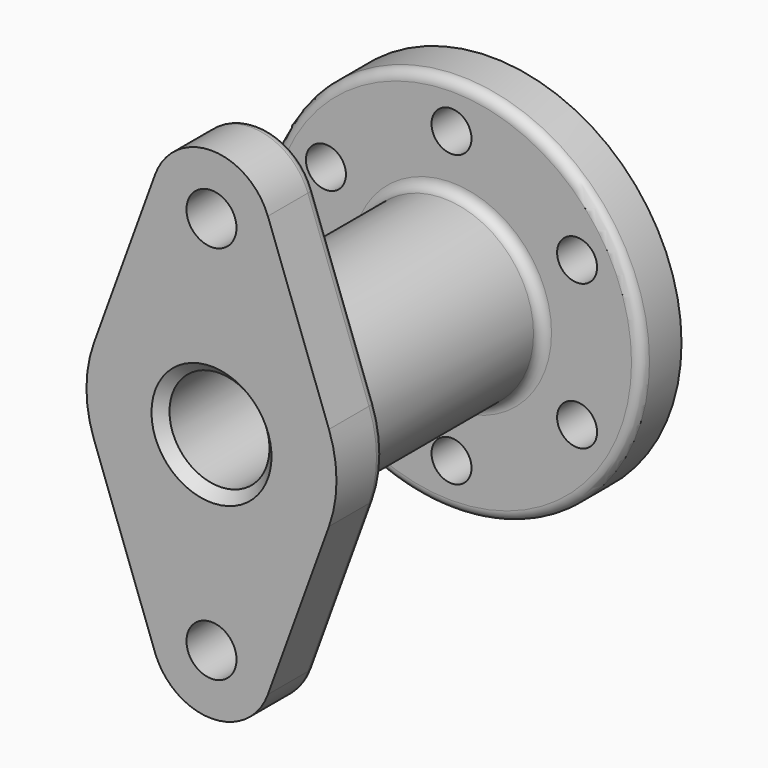
from build123d import *

# Parameters (mm, degrees)
F0_R        = 38
F0_R_2      = 4
F1_DEPTH    = 10
F3_R        = 5
F1_FACE_R   = 38
F1_FACE_R_2 = 4
F4_DEPTH    = 12
F5_R        = 18
F6_DEPTH    = 48
F7_W        = 18.915552
F7_H        = 85.689727
F8_DEPTH    = 40
F9_R        = 13
F10_DEPTH   = 25
F11_R       = 10
F12_DEPTH   = 45.001
F13_R       = 2
F14_SIZE    = 2


with BuildPart() as f1:
    # F0 (on Front) → F1 (new body)
    with BuildSketch(Plane.XZ):
        Circle(F0_R)
        with Locations((-25.114737, -14.5)):
            Circle(F0_R_2, mode=Mode.SUBTRACT)
        with Locations((0, -29)):
            Circle(F0_R_2, mode=Mode.SUBTRACT)
        with Locations((25.114737, -14.5)):
            Circle(F0_R_2, mode=Mode.SUBTRACT)
        with Locations((-25.114737, 14.5)):
            Circle(F0_R_2, mode=Mode.SUBTRACT)
        with Locations((25.114737, 14.5)):
            Circle(F0_R_2, mode=Mode.SUBTRACT)
        with Locations((0, 29)):
            Circle(F0_R_2, mode=Mode.SUBTRACT)
    extrude(amount=F1_DEPTH)

    # F3 (on offset) + F1_face (on face) → F4 (join)
    with BuildSketch(Plane.XZ.offset(70)):
        with BuildLine():
            Line((11.27594, -42.105263), (23.491541, -8.552632))
            ThreePointArc((23.491541, -8.552632), (25, 0), (23.491541, 8.552632))
            Line((23.491541, 8.552632), (11.27594, 42.105263))
            ThreePointArc((11.27594, 42.105263), (0, 50), (-11.27594, 42.105263))
            Line((-11.27594, 42.105263), (-23.491541, 8.552632))
            ThreePointArc((-23.491541, 8.552632), (-25, 0), (-23.491541, -8.552632))
            Line((-23.491541, -8.552632), (-11.27594, -42.105263))
            ThreePointArc((-11.27594, -42.105263), (0, -50), (11.27594, -42.105263))
        make_face()
        with Locations((0, -38)):
            Circle(F3_R, mode=Mode.SUBTRACT)
        with Locations((0, 38)):
            Circle(F3_R, mode=Mode.SUBTRACT)
    with BuildSketch(Plane.XZ.offset(10)):
        Circle(F1_FACE_R)
        with Locations((-25.114737, -14.5)):
            Circle(F1_FACE_R_2, mode=Mode.SUBTRACT)
        with Locations((0, -29)):
            Circle(F1_FACE_R_2, mode=Mode.SUBTRACT)
        with Locations((25.114737, -14.5)):
            Circle(F1_FACE_R_2, mode=Mode.SUBTRACT)
        with Locations((-25.114737, 14.5)):
            Circle(F1_FACE_R_2, mode=Mode.SUBTRACT)
        with Locations((25.114737, 14.5)):
            Circle(F1_FACE_R_2, mode=Mode.SUBTRACT)
        with Locations((0, 29)):
            Circle(F1_FACE_R_2, mode=Mode.SUBTRACT)
        Circle(F1_FACE_R)
        with Locations((-25.114737, -14.5)):
            Circle(F1_FACE_R_2, mode=Mode.SUBTRACT)
        with Locations((0, -29)):
            Circle(F1_FACE_R_2, mode=Mode.SUBTRACT)
        with Locations((25.114737, -14.5)):
            Circle(F1_FACE_R_2, mode=Mode.SUBTRACT)
        with Locations((-25.114737, 14.5)):
            Circle(F1_FACE_R_2, mode=Mode.SUBTRACT)
        with Locations((25.114737, 14.5)):
            Circle(F1_FACE_R_2, mode=Mode.SUBTRACT)
        with Locations((0, 29)):
            Circle(F1_FACE_R_2, mode=Mode.SUBTRACT)
    extrude(amount=-F4_DEPTH)

    # F5 (on face) → F6 (join, through all)
    with BuildSketch(Plane.XZ.offset(10)):
        Circle(F5_R)
    extrude(amount=F6_DEPTH)

    # F7 (on Right) → F8 (cut, symmetric)
    with BuildSketch(Plane.YZ):
        with Locations((9.457776, 1.025541)):
            Rectangle(F7_W, F7_H)
    extrude(amount=F8_DEPTH, both=True, mode=Mode.SUBTRACT)

    # F9 (on face) → F10 (cut)
    with BuildSketch(Plane(origin=(0, 0, 0), x_dir=(-1, 0, 0), z_dir=(0, 1, 0))):
        Circle(F9_R)
    extrude(amount=-F10_DEPTH, mode=Mode.SUBTRACT)

    # F11 (on face) → F12 (cut, through all)
    with BuildSketch(Plane(origin=(0, -25, 0), x_dir=(-1, 0, 0), z_dir=(0, 1, 0))):
        Circle(F11_R)
    extrude(amount=-F12_DEPTH, mode=Mode.SUBTRACT)

    # F13
    f13_edges = [f1.edges().sort_by_distance(p)[0] for p in [
        (-18, -58, 0),
        (17.38374, -58, 25.328947),
        (-18, -10, 0),
        (-38, -10, 0),
    ]]
    fillet(f13_edges, radius=F13_R)

    # F14
    f14_edges = [f1.edges().sort_by_distance(p)[0] for p in [
        (10, -70, 0),
    ]]
    chamfer(f14_edges, length=F14_SIZE)


solid = f1.part
